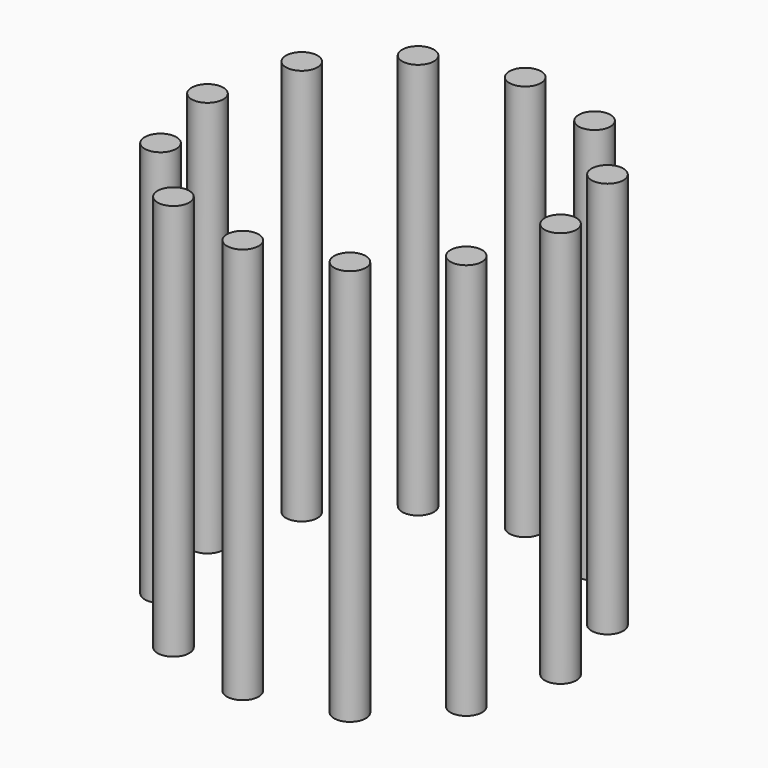
from build123d import *

# Parameters (mm, degrees)
F0_R     = 5
F1_DEPTH = 62.5
F3_COUNT = 12


with BuildPart() as f1:
    # F0 (on Top) → F1 (new body, symmetric)
    with BuildSketch(Plane.XY):
        with Locations((-55.615533, 0)):
            Circle(F0_R)
    extrude(amount=F1_DEPTH, both=True)


with BuildPart() as f3_1:
    # F3: instance of F1
    add(f1.part.rotate(Axis((0, 0, 21.510419), (0, 0, 1)), 1 * 360 / F3_COUNT))


with BuildPart() as f3_2:
    # F3: instance of F1
    add(f1.part.rotate(Axis((0, 0, 21.510419), (0, 0, 1)), 2 * 360 / F3_COUNT))


with BuildPart() as f3_3:
    # F3: instance of F1
    add(f1.part.rotate(Axis((0, 0, 21.510419), (0, 0, 1)), 3 * 360 / F3_COUNT))


with BuildPart() as f3_4:
    # F3: instance of F1
    add(f1.part.rotate(Axis((0, 0, 21.510419), (0, 0, 1)), 4 * 360 / F3_COUNT))


with BuildPart() as f3_5:
    # F3: instance of F1
    add(f1.part.rotate(Axis((0, 0, 21.510419), (0, 0, 1)), 5 * 360 / F3_COUNT))


with BuildPart() as f3_6:
    # F3: instance of F1
    add(f1.part.rotate(Axis((0, 0, 21.510419), (0, 0, 1)), 6 * 360 / F3_COUNT))


with BuildPart() as f3_7:
    # F3: instance of F1
    add(f1.part.rotate(Axis((0, 0, 21.510419), (0, 0, 1)), 7 * 360 / F3_COUNT))


with BuildPart() as f3_8:
    # F3: instance of F1
    add(f1.part.rotate(Axis((0, 0, 21.510419), (0, 0, 1)), 8 * 360 / F3_COUNT))


with BuildPart() as f3_9:
    # F3: instance of F1
    add(f1.part.rotate(Axis((0, 0, 21.510419), (0, 0, 1)), 9 * 360 / F3_COUNT))


with BuildPart() as f3_10:
    # F3: instance of F1
    add(f1.part.rotate(Axis((0, 0, 21.510419), (0, 0, 1)), 10 * 360 / F3_COUNT))


with BuildPart() as f3_11:
    # F3: instance of F1
    add(f1.part.rotate(Axis((0, 0, 21.510419), (0, 0, 1)), 11 * 360 / F3_COUNT))


solid = Compound([f1.part, f3_1.part, f3_2.part, f3_3.part, f3_4.part, f3_5.part, f3_6.part, f3_7.part, f3_8.part, f3_9.part, f3_10.part, f3_11.part])
